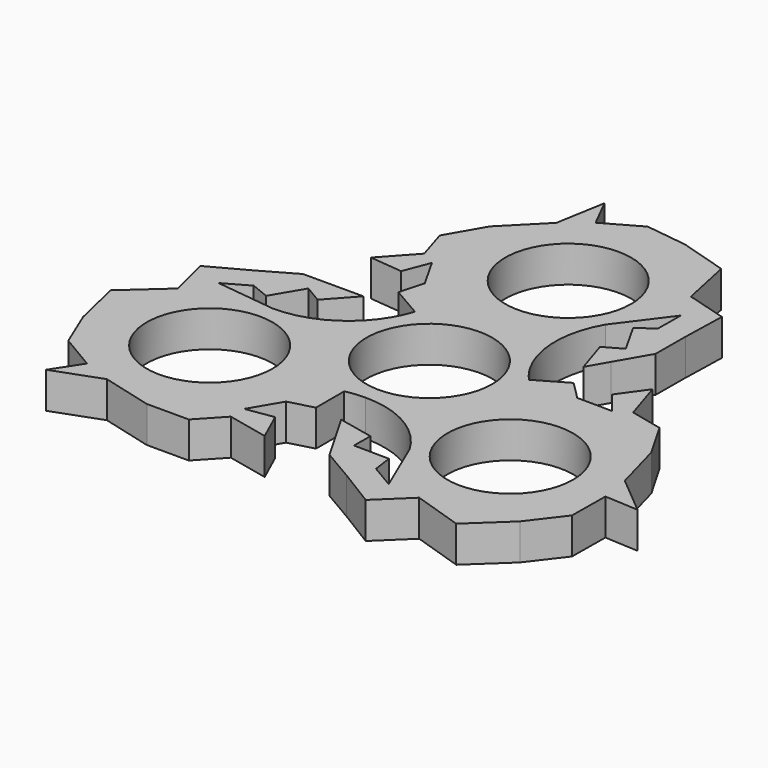
from build123d import *

# Parameters (mm, degrees)
F0_R     = 11.049
F1_DEPTH = 6.35


with BuildPart() as f1:
    # F0 (on Top) → F1 (new body)
    with BuildSketch(Plane.XY):
        with BuildLine():
            ThreePointArc((-2.36e-08, -13.97), (9.8782817248, -9.8782817415), (13.97, 0))
            ThreePointArc((13.97, 0), (13.8409108955, 1.8947521167), (13.4560292651, 3.754487504))
            ThreePointArc((13.4560292651, 3.754487504), (12.8788953824, 5.4124812914), (12.0983749493, 6.9849998988))
            ThreePointArc((12.0983749493, 6.9849998988), (1.7521013954, 13.8596912195), (-9.9794961892, 9.7760194256))
            ThreePointArc((-9.9794961892, 9.7760194256), (-11.1267940276, 8.4472098748), (-12.0983748995, 6.9849999851))
            ThreePointArc((-12.0983748995, 6.9849999851), (-12.8788953564, -5.4124813532), (-3.4765330758, -13.5305069296))
            ThreePointArc((-3.4765330758, -13.5305069296), (-1.7521013491, -13.8596912254), (-2.36e-08, -13.97))
        make_face()
        Circle(F0_R, mode=Mode.SUBTRACT)
        with BuildLine():
            ThreePointArc((13.4560292651, 3.754487504), (13.8409108955, 1.8947521167), (13.97, 0))
            ThreePointArc((13.97, 0), (9.8782817248, -9.8782817415), (-2.36e-08, -13.97))
            ThreePointArc((-2.36e-08, -13.97), (8.2549999898, -16.1819205776), (14.2980794165, -22.225))
            ThreePointArc((14.2980794165, -22.225), (14.2980794165, -8.255), (26.3964543074, -1.27))
            ThreePointArc((26.3964543074, -1.27), (19.7017499565, 0.1482461704), (14.1572259578, 4.1593236033))
            Line((14.1572259578, 4.1593236033), (13.4560292651, 3.754487504))
        make_face()
        with BuildLine():
            ThreePointArc((12.0983749493, 6.9849998988), (12.8788953824, 5.4124812914), (13.4560292651, 3.754487504))
            Line((13.4560292651, 3.754487504), (14.1572259578, 4.1593236033))
            ThreePointArc((14.1572259578, 4.1593236033), (13.0527933882, 5.5175099241), (12.0983749493, 6.9849998988))
        make_face()
        with BuildLine():
            ThreePointArc((-3.4765330758, -14.3401791282), (-1.7480928878, -14.0628056217), (-2.36e-08, -13.97))
            ThreePointArc((-2.36e-08, -13.97), (-1.7521013491, -13.8596912254), (-3.4765330758, -13.5305069296))
            Line((-3.4765330758, -13.5305069296), (-3.4765330758, -14.3401791282))
        make_face()
        with BuildLine():
            ThreePointArc((-9.9794961892, 9.7760194256), (1.7521013954, 13.8596912195), (12.0983749493, 6.9849998988))
            ThreePointArc((12.0983749493, 6.9849998988), (9.8864543074, 15.2399999416), (12.0983748909, 23.495))
            ThreePointArc((12.0983748909, 23.495), (0, 16.51), (-12.0983748909, 23.495))
            ThreePointArc((-12.0983748909, 23.495), (-9.9792599278, 16.9880928761), (-10.680692882, 10.1808555249))
            Line((-10.680692882, 10.1808555249), (-9.9794961892, 9.7760194256))
        make_face()
        with BuildLine():
            Line((19.5333762679, 7.2632454321), (14.1572259578, 4.1593236033))
            ThreePointArc((14.1572259578, 4.1593236033), (19.7017499565, 0.1482461704), (26.3964543074, -1.27))
            ThreePointArc((26.3964543074, -1.27), (36.2747360405, -5.3617182668), (40.3664543073, -15.24))
            ThreePointArc((40.3664543073, -15.24), (30.0121563674, -28.7339837933), (14.2980794165, -22.225))
            Line((14.2980794165, -22.225), (18.5129530728, -32.0653753202))
            Line((18.5129530728, -32.0653753202), (14.2964770949, -29.5855224255))
            Line((14.2964770949, -29.5855224255), (13.8160917687, -26.1500289008))
            Line((13.8160917687, -26.1500289008), (7.6188843675, -26.0812350595))
            Line((7.6188843675, -26.0812350595), (7.6586053261, -22.5030220397))
            Line((7.6586053261, -22.5030220397), (1.4429174314, -21.1629279691))
            Line((1.4429174314, -21.1629279691), (3.4801004676, -24.6914324922))
            Line((3.4801004676, -24.6914324922), (6.7429192586, -30.342800414))
            Line((6.7429192586, -30.342800414), (12.3789807439, -33.641130461))
            Line((12.3789807439, -33.641130461), (18.9779134399, -37.6940080274))
            Line((18.9779134399, -37.6940080274), (24.2913333671, -32.5875241804))
            Line((24.2913333671, -32.5875241804), (33.0798736321, -35.4493195164))
            Line((33.0798736321, -35.4493195164), (39.4581922442, -29.4734863592))
            Line((39.4581922442, -29.4734863592), (43.9366570858, -23.6116887214))
            Line((43.9366570858, -23.6116887214), (44.0099485225, -16.3618282657))
            Line((44.0099485225, -16.3618282657), (49.9108565981, -16.6858625943))
            Line((49.9108565981, -16.6858625943), (43.1618704508, -11.0453059989))
            Line((43.1618704508, -11.0453059989), (40.7443994954, -2.1940317001))
            Line((40.7443994954, -2.1940317001), (37.0559956245, 4.1944712032))
            Line((37.0559956245, 4.1944712032), (31.3842575072, 5.5065100534))
            Line((31.3842575072, 5.5065100534), (29.1446442552, 12.5378607885))
            Line((29.1446442552, 12.5378607885), (25.7749684952, 7.8452786686))
            Line((25.7749684952, 7.8452786686), (28.8350082813, 4.0347003266))
            Line((28.8350082813, 4.0347003266), (22.6981406857, 4.0953499054))
            Line((22.6981406857, 4.0953499054), (19.5333762679, 7.2632454321))
        make_face()
        with BuildLine():
            Line((-3.4765330758, -14.3401791282), (-3.4765330758, -13.5305069296))
            ThreePointArc((-3.4765330758, -13.5305069296), (-12.8788953564, -5.4124813532), (-12.0983748995, 6.9849999851))
            ThreePointArc((-12.0983748995, 6.9849999851), (-18.1414543148, 0.9419205792), (-26.3964543073, -1.27))
            ThreePointArc((-26.3964543073, -1.27), (-16.5181725742, -5.3617182668), (-12.4264543073, -15.24))
            ThreePointArc((-12.4264543073, -15.24), (-12.9024705141, -18.8557020601), (-14.2980794165, -22.225))
            ThreePointArc((-14.2980794165, -22.225), (-9.7224900287, -17.1363390465), (-3.4765330758, -14.3401791282))
        make_face()
        with BuildLine():
            ThreePointArc((26.3964543074, -1.27), (14.2980794165, -8.255), (14.2980794165, -22.225))
            ThreePointArc((14.2980794165, -22.225), (30.0121563674, -28.7339837933), (40.3664543073, -15.24))
            ThreePointArc((40.3664543073, -15.24), (36.2747360405, -5.3617182668), (26.3964543074, -1.27))
        make_face()
        with Locations((26.3964543073, -15.24)):
            Circle(F0_R, mode=Mode.SUBTRACT)
        with BuildLine():
            Line((-3.4765330758, -20.5480227857), (-3.4765330758, -14.3401791282))
            ThreePointArc((-3.4765330758, -14.3401791282), (-9.7224900287, -17.1363390465), (-14.2980794165, -22.225))
            ThreePointArc((-14.2980794165, -22.225), (-38.4948291982, -22.225), (-26.3964543073, -1.27))
            Line((-26.3964543073, -1.27), (-37.0259061456, 0))
            Line((-37.0259061456, 0), (-32.7700525522, 2.4116488639))
            Line((-32.7700525522, 2.4116488639), (-29.5546352221, 1.1099279977))
            Line((-29.5546352221, 1.1099279977), (-26.3964543073, 6.442470119))
            Line((-26.3964543073, 6.442470119), (-23.3174914114, 4.6189642499))
            Line((-23.3174914114, 4.6189642499), (-19.0490919554, 9.3318608334))
            Line((-19.0490919554, 9.3318608334), (-23.1234580278, 9.3318608334))
            Line((-23.1234580278, 9.3318608334), (-29.6490956098, 9.3318608334))
            Line((-29.6490956098, 9.3318608334), (-35.3235639632, 6.1000534333))
            Line((-35.3235639632, 6.1000534333), (-42.1329252422, 2.4116488639))
            Line((-42.1329252422, 2.4116488639), (-40.3672904702, -4.7431496975))
            Line((-40.3672904702, -4.7431496975), (-47.2399480641, -10.9233511612))
            Line((-47.2399480641, -10.9233511612), (-45.2538840473, -19.4350536913))
            Line((-45.2538840473, -19.4350536913), (-42.4166508019, -26.2444168329))
            Line((-42.4166508019, -26.2444168329), (-36.1747331917, -29.9328193069))
            Line((-36.1747331917, -29.9328193069), (-39.4058091898, -34.8811384415))
            Line((-39.4058091898, -34.8811384415), (-31.146450813, -31.8566232858))
            Line((-31.146450813, -31.8566232858), (-22.2722869366, -34.1886691749))
            Line((-22.2722869366, -34.1886691749), (-14.8954791948, -34.1886691749))
            Line((-14.8954791948, -34.1886691749), (-10.9233511612, -29.9328193069))
            Line((-10.9233511612, -29.9328193069), (-3.7142161756, -31.5089327035))
            Line((-3.7142161756, -31.5089327035), (-6.0932736208, -26.2444168329))
            Line((-6.0932736208, -26.2444168329), (-10.9233511612, -26.9891998532))
            Line((-10.9233511612, -26.9891998532), (-7.8023932874, -21.7048414052))
            Line((-7.8023932874, -21.7048414052), (-3.4765330758, -20.5480227857))
        make_face()
        with BuildLine():
            ThreePointArc((-12.0983748995, 6.9849999851), (-11.1267940276, 8.4472098748), (-9.9794961892, 9.7760194256))
            Line((-9.9794961892, 9.7760194256), (-10.680692882, 10.1808555249))
            ThreePointArc((-10.680692882, 10.1808555249), (-11.3047004812, 8.5452956412), (-12.0983748995, 6.9849999851))
        make_face()
        with BuildLine():
            ThreePointArc((-12.0983748909, 23.495), (0, 16.51), (12.0983748909, 23.495))
            ThreePointArc((12.0983748909, 23.495), (13.4939837933, 26.8642979399), (13.97, 30.48))
            ThreePointArc((13.97, 30.48), (-3.6157020601, 43.9739837933), (-12.0983748909, 23.495))
        make_face()
        with Locations((0, 30.48)):
            Circle(F0_R, mode=Mode.SUBTRACT)
        with BuildLine():
            ThreePointArc((13.97, 30.48), (13.4939837933, 26.8642979399), (12.0983748909, 23.495))
            Line((12.0983748909, 23.495), (18.5129530728, 32.0653753202))
            Line((18.5129530728, 32.0653753202), (18.4735754573, 27.1738735616))
            Line((18.4735754573, 27.1738735616), (15.7385434534, 25.0401009031))
            Line((15.7385434534, 25.0401009031), (18.7775699398, 19.6387649405))
            Line((18.7775699398, 19.6387649405), (15.6588860852, 17.8840577898))
            Line((15.6588860852, 17.8840577898), (17.606174524, 11.8310671357))
            Line((17.606174524, 11.8310671357), (19.6433575602, 15.3595716588))
            Line((19.6433575602, 15.3595716588), (22.9061763512, 21.0109395806))
            Line((22.9061763512, 21.0109395806), (22.9445832193, 27.5410770276))
            Line((22.9445832193, 27.5410770276), (23.1550118023, 35.2823591635))
            Line((23.1550118023, 35.2823591635), (16.0759571031, 37.3306738779))
            Line((16.0759571031, 37.3306738779), (14.160074432, 46.3726706775))
            Line((14.160074432, 46.3726706775), (5.7956918031, 48.9085400505))
            Line((5.7956918031, 48.9085400505), (-1.5200062839, 49.8561055544))
            Line((-1.5200062839, 49.8561055544), (-7.8352153308, 46.2946475726))
            Line((-7.8352153308, 46.2946475726), (-10.5050474083, 51.5670010358))
            Line((-10.5050474083, 51.5670010358), (-12.0154196378, 42.9019292847))
            Line((-12.0154196378, 42.9019292847), (-18.4721125587, 36.382700875))
            Line((-18.4721125587, 36.382700875), (-22.1605164296, 29.9941979717))
            Line((-22.1605164296, 29.9941979717), (-20.460906346, 24.4263092535))
            Line((-20.460906346, 24.4263092535), (-25.4304280796, 18.971071915))
            Line((-25.4304280796, 18.971071915), (-19.6816948744, 18.3991381643))
            Line((-19.6816948744, 18.3991381643), (-17.9116571201, 22.9544995267))
            Line((-17.9116571201, 22.9544995267), (-14.8957473983, 17.6094914998))
            Line((-14.8957473983, 17.6094914998), (-16.0568431921, 13.2847773536))
            Line((-16.0568431921, 13.2847773536), (-10.680692882, 10.1808555249))
            ThreePointArc((-10.680692882, 10.1808555249), (-9.9792599278, 16.9880928761), (-12.0983748909, 23.495))
            ThreePointArc((-12.0983748909, 23.495), (-3.6157020601, 43.9739837933), (13.97, 30.48))
        make_face()
        with BuildLine():
            ThreePointArc((-26.3964543073, -1.27), (-38.4948291982, -22.225), (-14.2980794165, -22.225))
            ThreePointArc((-14.2980794165, -22.225), (-12.9024705141, -18.8557020601), (-12.4264543073, -15.24))
            ThreePointArc((-12.4264543073, -15.24), (-16.5181725742, -5.3617182668), (-26.3964543073, -1.27))
        make_face()
        with Locations((-26.3964543073, -15.24)):
            Circle(F0_R, mode=Mode.SUBTRACT)
    extrude(amount=F1_DEPTH)


solid = f1.part
